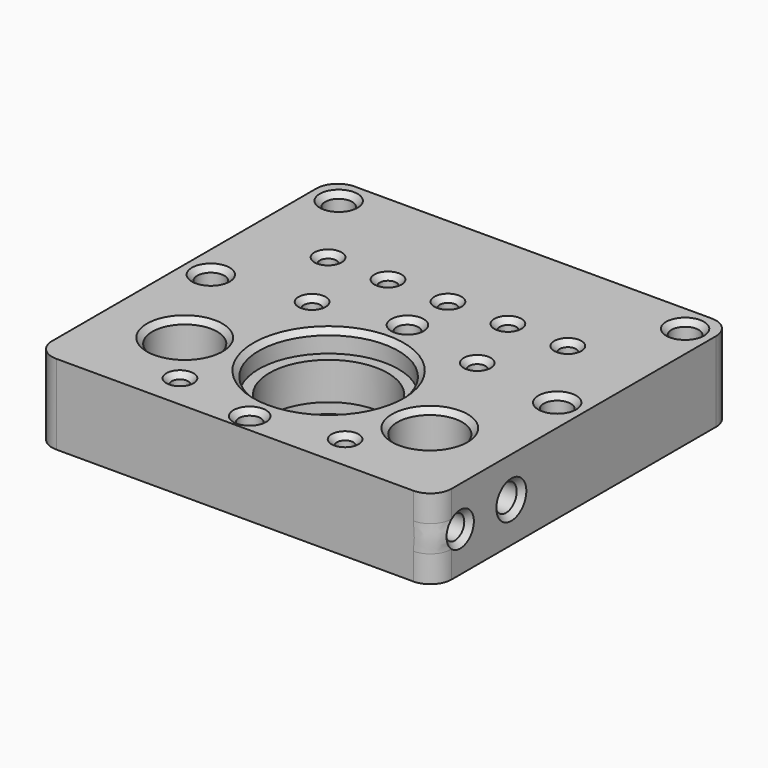
from build123d import *

# Parameters (mm, degrees)
SKETCH007_W     = 70
SKETCH007_H     = 75
SKETCH007_R     = 6.1
SKETCH007_R_2   = 11.1
SKETCH007_R_3   = 2.05
SKETCH007_R_4   = 1.55
SKETCH007_R_5   = 2.55
PAD002_DEPTH    = 15
SKETCH008_R     = 13.1
POCKET004_DEPTH = 4
SKETCH009_R     = 13.1
POCKET005_DEPTH = 4
SKETCH010_R     = 2.20158
SKETCH010_R_2   = 2.512723
POCKET006_DEPTH = 10
SKETCH011_R     = 1.55
POCKET007_DEPTH = 15.001
CHAMFER003_SIZE = 1
CHAMFER004_SIZE = 1
CHAMFER005_SIZE = 1
FILLET_R        = 4


with BuildPart() as part:
    # Sketch007 (on Face1 of CopyChamfer002001) → Pad002 (new body)
    with BuildSketch(Plane.YX.offset(50)):
        with Locations((-15, 0)):
            Rectangle(SKETCH007_W, SKETCH007_H)
        with Locations((-33, 23)):
            Circle(SKETCH007_R, mode=Mode.SUBTRACT)
        with Locations((-33, -23)):
            Circle(SKETCH007_R, mode=Mode.SUBTRACT)
        with Locations((-28, 0)):
            Circle(SKETCH007_R_2, mode=Mode.SUBTRACT)
        with Locations((-46.5, 0)):
            Circle(SKETCH007_R_3, mode=Mode.SUBTRACT)
        with Locations((-9.5, 0)):
            Circle(SKETCH007_R_3, mode=Mode.SUBTRACT)
        with Locations((0, 22.5)):
            Circle(SKETCH007_R_4, mode=Mode.SUBTRACT)
        with Locations((0, 11.25)):
            Circle(SKETCH007_R_4, mode=Mode.SUBTRACT)
        Circle(SKETCH007_R_4, mode=Mode.SUBTRACT)
        with Locations((0, -11.25)):
            Circle(SKETCH007_R_4, mode=Mode.SUBTRACT)
        with Locations((0, -22.5)):
            Circle(SKETCH007_R_4, mode=Mode.SUBTRACT)
        with Locations((-15, 32.5)):
            Circle(SKETCH007_R_5, mode=Mode.SUBTRACT)
        with Locations((-15, -32.5)):
            Circle(SKETCH007_R_5, mode=Mode.SUBTRACT)
        with Locations((15, -32.5)):
            Circle(SKETCH007_R_5, mode=Mode.SUBTRACT)
        with Locations((15, 32.5)):
            Circle(SKETCH007_R_5, mode=Mode.SUBTRACT)
    extrude(amount=PAD002_DEPTH)

    # Sketch008 (on Face20 of Pad002) → Pocket004 (cut)
    with BuildSketch(Plane.YX.offset(65)):
        with Locations((-28, 0)):
            Circle(SKETCH008_R)
    extrude(amount=-POCKET004_DEPTH, mode=Mode.SUBTRACT)

    # Sketch009 (on Face4 of Pocket004) → Pocket005 (cut)
    with BuildSketch(Plane(origin=(0, 0, -50), x_dir=(0, -1, 0), z_dir=(0, 0, 1))):
        with Locations((28, 0)):
            Circle(SKETCH009_R)
    extrude(amount=-POCKET005_DEPTH, mode=Mode.SUBTRACT)

    # Sketch010 (on Face1 of Pocket005) → Pocket006 (cut)
    with BuildSketch(Plane.YZ.offset(37.5)):
        with Locations((-44, -57.5)):
            Circle(SKETCH010_R)
        with Locations((-32, -57.5)):
            Circle(SKETCH010_R_2)
    extrude(amount=-POCKET006_DEPTH, mode=Mode.SUBTRACT)

    # Sketch011 (on Face4 of Pocket006) → Pocket007 (cut, through all)
    with BuildSketch(Plane.YX.offset(65)):
        with Locations((-12.5, -15.5)):
            Circle(SKETCH011_R)
        with Locations((-12.5, 15.5)):
            Circle(SKETCH011_R)
        with Locations((-43.5, 15.5)):
            Circle(SKETCH011_R)
        with Locations((-43.5, -15.5)):
            Circle(SKETCH011_R)
    extrude(amount=-POCKET007_DEPTH, mode=Mode.SUBTRACT)

    # Chamfer003
    chamfer003_edges = [part.edges().sort_by_distance(p)[0] for p in [
        (-23, -39.1, -65),
        (23, -39.1, -65),
        (0, -41.1, -65),
        (32.5, -17.55, -65),
        (-32.5, -17.55, -65),
        (-32.5, 12.45, -65),
        (32.5, 12.45, -65),
        (22.5, -1.55, -65),
        (11.25, -1.55, -65),
        (0, -1.55, -65),
        (-11.25, -1.55, -65),
        (-22.5, -1.55, -65),
        (-15.5, -14.05, -65),
        (15.5, -14.05, -65),
        (15.5, -45.05, -65),
        (0, -48.55, -65),
        (-15.5, -45.05, -65),
        (0, -11.55, -65),
    ]]
    chamfer(chamfer003_edges, length=CHAMFER003_SIZE)

    # Chamfer004
    chamfer004_edges = [part.edges().sort_by_distance(p)[0] for p in [
        (-23, -39.1, -50),
        (-15.5, -45.05, -50),
        (0, -48.55, -50),
        (15.5, -45.05, -50),
        (23, -39.1, -50),
        (0, -14.9, -50),
        (32.5, -17.55, -50),
        (15.5, -14.05, -50),
        (23, -39.1, -64),
        (0, -1.55, -50),
        (-22.5, -1.55, -50),
        (-11.25, -1.55, -50),
        (-15.5, -14.05, -50),
        (0, -11.55, -50),
        (11.25, -1.55, -50),
        (22.5, -1.55, -50),
        (32.5, 12.45, -50),
        (-32.5, -17.55, -50),
        (-32.5, 12.45, -50),
    ]]
    chamfer(chamfer004_edges, length=CHAMFER004_SIZE)

    # Chamfer005
    chamfer005_edges = [part.edges().sort_by_distance(p)[0] for p in [
        (37.5, -34.512723, -57.5),
        (37.5, -46.20158, -57.5),
    ]]
    chamfer(chamfer005_edges, length=CHAMFER005_SIZE)

    # Fillet
    fillet_edges = [part.edges().sort_by_distance(p)[0] for p in [
        (37.5, 20, -57.5),
        (37.5, -50, -57.5),
        (-37.5, 20, -57.5),
        (-37.5, -50, -57.5),
    ]]
    fillet(fillet_edges, radius=FILLET_R)


solid = part.part
